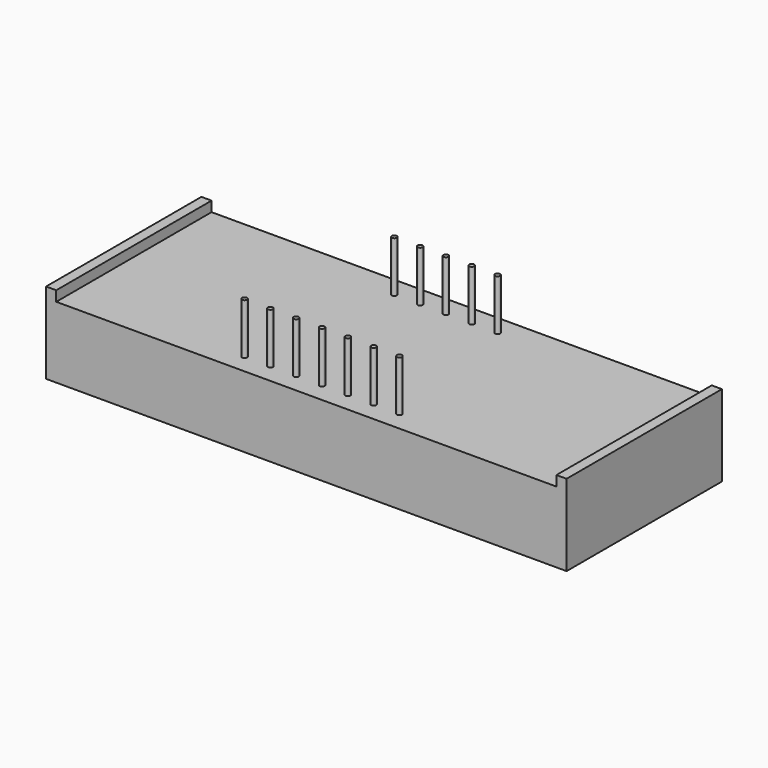
from build123d import *

# Parameters (mm, degrees)
F0_W     = 51.2
F0_H     = 19.1
F1_DEPTH = 7
F3_W     = 1
F3_H     = 19.1
F4_DEPTH = 1
F5_W     = 1
F5_H     = 19.1
F6_DEPTH = 1
F7_R     = 0.25
F8_DEPTH = 5


with BuildPart() as f1:
    # F0 (on Top) → F1 (new body)
    with BuildSketch(Plane.XY):
        with Locations((-15.157956, -22.626161)):
            Rectangle(F0_W, F0_H)
    extrude(amount=F1_DEPTH)

    # F3 (on face) → F4 (join)
    with BuildSketch(Plane.XY.offset(7)):
        with Locations((-40.257956, -22.626161)):
            Rectangle(F3_W, F3_H)
    extrude(amount=F4_DEPTH)

    # F5 (on face) → F6 (join)
    with BuildSketch(Plane.XY.offset(7)):
        with Locations((9.942044, -22.626161)):
            Rectangle(F5_W, F5_H)
    extrude(amount=F6_DEPTH)

    # F7 (on face) → F8 (join)
    with BuildSketch(Plane.XY.offset(7)):
        with Locations((-15.157956, -15.006161)):
            Circle(F7_R)
        with Locations((-15.157956, -30.246161)):
            Circle(F7_R)
        with Locations((-12.617956, -15.006161)):
            Circle(F7_R)
        with Locations((-10.077956, -15.006161)):
            Circle(F7_R)
        with Locations((-17.697956, -15.006161)):
            Circle(F7_R)
        with Locations((-20.237956, -15.006161)):
            Circle(F7_R)
        with Locations((-12.617956, -30.246161)):
            Circle(F7_R)
        with Locations((-10.077956, -30.246161)):
            Circle(F7_R)
        with Locations((-7.537956, -30.246161)):
            Circle(F7_R)
        with Locations((-17.697956, -30.246161)):
            Circle(F7_R)
        with Locations((-20.237956, -30.246161)):
            Circle(F7_R)
        with Locations((-22.777956, -30.246161)):
            Circle(F7_R)
    extrude(amount=F8_DEPTH)


solid = f1.part
